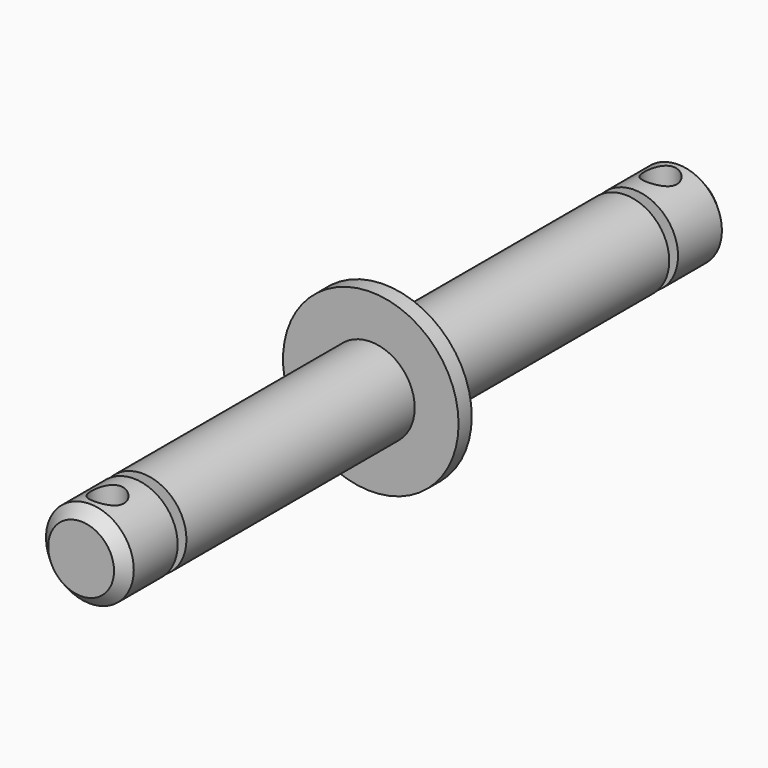
from build123d import *

# Parameters (mm, degrees)
F0_R     = 8
F0_R_2   = 4
F1_DEPTH = 1.5
F2_R     = 4
F3_DEPTH = 34.5
F5_R     = 4
F5_R_2   = 2.5
F6_DEPTH = 1
F7_SIZE  = 1
F8_R     = 1.5
F9_DEPTH = 4


with BuildPart() as f1:
    # F0 (on Front) → F1 (new body)
    with BuildSketch(Plane.XZ):
        Circle(F0_R)
        Circle(F0_R_2, mode=Mode.SUBTRACT)
    extrude(amount=F1_DEPTH)


with BuildPart() as f3:
    # F2 (on Front) → F3 (new body)
    with BuildSketch(Plane.XZ):
        Circle(F2_R)
    extrude(amount=F3_DEPTH)

    # F5 (on offset) → F6 (cut)
    with BuildSketch(Plane.XZ.offset(28.5)):
        Circle(F5_R)
        Circle(F5_R_2, mode=Mode.SUBTRACT)
    extrude(amount=-F6_DEPTH, mode=Mode.SUBTRACT)

    # F7
    f7_edges = [f3.edges().sort_by_distance(p)[0] for p in [
        (-4, -34.5, 0),
    ]]
    chamfer(f7_edges, length=F7_SIZE)

    # F8 (on Top) → F9 (cut, symmetric)
    with BuildSketch(Plane.XY):
        with Locations((0, -31.5)):
            Circle(F8_R)
    extrude(amount=F9_DEPTH, both=True, mode=Mode.SUBTRACT)

    # F10: F3 across plane


with BuildPart() as f3_1:
    add(f3.part)
    add(f3.part.mirror(Plane.XZ))


solid = Compound([f1.part, f3_1.part])
